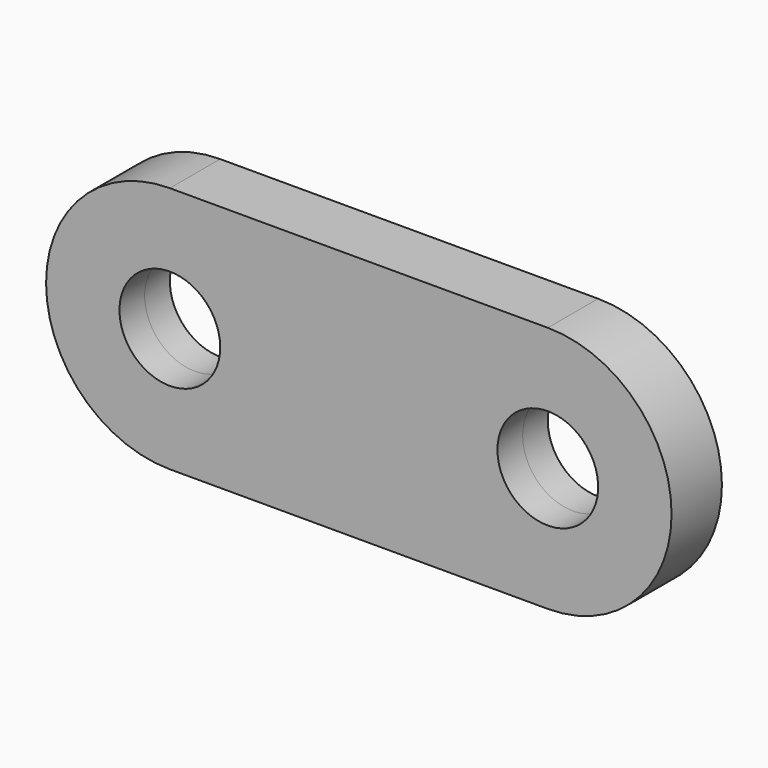
from build123d import *

# Parameters (mm, degrees)
F0_R     = 4.0005
F1_DEPTH = 2.5


with BuildPart() as f1:
    # F0 (on Front) → F1 (new body, symmetric)
    with BuildSketch(Plane.XZ):
        with BuildLine():
            Line((0, 9.8298), (0, 0))
            Line((0, 0), (0, -9.8298))
            Line((0, -9.8298), (15.0114, -9.8298))
            ThreePointArc((15.0114, -9.8298), (24.8412, 0), (15.0114, 9.8298))
            Line((15.0114, 9.8298), (0, 9.8298))
        make_face()
        with BuildLine():
            ThreePointArc((19.0119, 0), (15.0114, -4.0005), (11.0109, 0))
            ThreePointArc((11.0109, 0), (15.0114, 4.0005), (19.0119, 0))
        make_face(mode=Mode.SUBTRACT)
        with BuildLine():
            Line((0, -9.8298), (0, 0))
            Line((0, 0), (0, 9.8298))
            Line((0, 9.8298), (-15.0114, 9.8298))
            ThreePointArc((-15.0114, 9.8298), (-24.8412, 0), (-15.0114, -9.8298))
            Line((-15.0114, -9.8298), (0, -9.8298))
        make_face()
        with Locations((-15.0114, 0)):
            Circle(F0_R, mode=Mode.SUBTRACT)
    extrude(amount=F1_DEPTH, both=True)


solid = f1.part
